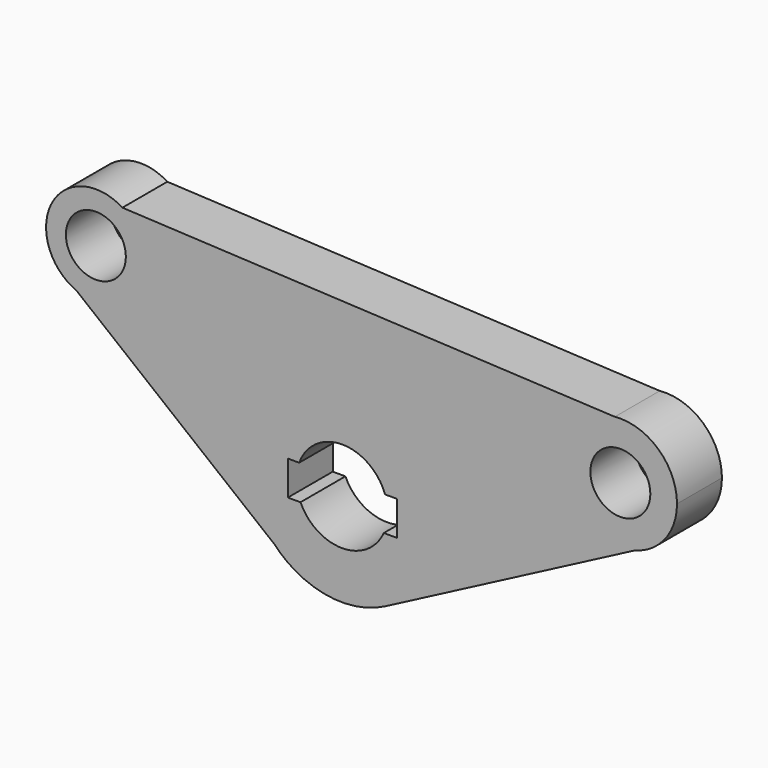
from build123d import *

# Parameters (mm, degrees)
F0_R     = 13.5638253362
F1_DEPTH = 25.4
F2_DEPTH = 41.656
F3_DEPTH = 26.162


with BuildPart() as f1:
    # F0 (on Front) → F1 (new body)
    with BuildSketch(Plane.XZ):
        with BuildLine():
            ThreePointArc((42.2479079596, 0), (36.1330221503, -21.892702831), (19.5584797538, -37.4479852152))
            Line((19.5584797538, -37.4479852152), (132.4212052928, 21.4983992089))
            ThreePointArc((132.4212052928, 21.4983992089), (100.6472035915, 41.7404632116), (123.3718206821, 71.7890924196))
            Line((123.3718206821, 71.7890924196), (-99.4221599354, 82.6346792182))
            ThreePointArc((-99.4221599354, 82.6346792182), (-91.712695746, 74.4613506675), (-88.9104630026, 63.580788672))
            ThreePointArc((-88.9104630026, 63.580788672), (-98.9866948233, 44.8085061449), (-120.2003748087, 42.8314324344))
            Line((-120.2003748087, 42.8314324344), (-30.734153315, -28.9878862108))
            ThreePointArc((-30.734153315, -28.9878862108), (-15.5953846777, 39.2641019726), (42.2479079596, 0))
        make_face()
        with BuildLine():
            Line((-30.734153315, -28.9878862108), (-21.6561091574, -36.2753175468))
            ThreePointArc((-21.6561091574, -36.2753175468), (-1.201582142, -42.2308172703), (19.5584797538, -37.4479852152))
            ThreePointArc((19.5584797538, -37.4479852152), (36.1330221503, -21.892702831), (42.2479079596, 0))
            ThreePointArc((42.2479079596, 0), (-15.5953846777, 39.2641019726), (-30.734153315, -28.9878862108))
        make_face()
        with BuildLine():
            ThreePointArc((-19.4369487029, 7.0494087413), (0, 20.6758104674), (19.4369487029, 7.0494087413))
            Line((19.4369487029, 7.0494087413), (24.9135568738, 7.0494087413))
            Line((24.9135568738, 7.0494087413), (24.9135568738, -8.5022896528))
            Line((24.9135568738, -8.5022896528), (18.8467559315, -8.5022896528))
            ThreePointArc((18.8467559315, -8.5022896528), (0, -20.6758104674), (-18.8467559315, -8.5022896528))
            Line((-18.8467559315, -8.5022896528), (-24.5691239834, -8.5022896528))
            Line((-24.5691239834, -8.5022896528), (-24.5691239834, 7.0494087413))
            Line((-24.5691239834, 7.0494087413), (-19.4369487029, 7.0494087413))
        make_face(mode=Mode.SUBTRACT)
        with BuildLine():
            ThreePointArc((123.3718206821, 71.7890924196), (100.6472035915, 41.7404632116), (132.4212052928, 21.4983992089))
            ThreePointArc((132.4212052928, 21.4983992089), (146.1814974644, 30.6406644058), (151.5054987025, 46.2797712983))
            ThreePointArc((151.5054987025, 46.2797712983), (143.0908574497, 65.2681184027), (123.3718206821, 71.7890924196))
        make_face()
        with Locations((125.873775364, 46.2797712983)):
            Circle(F0_R, mode=Mode.SUBTRACT)
        with BuildLine():
            Line((-129.7982639681, 50.536171143), (-120.2003748087, 42.8314324344))
            ThreePointArc((-120.2003748087, 42.8314324344), (-98.9866948233, 44.8085061449), (-88.9104630026, 63.580788672))
            ThreePointArc((-88.9104630026, 63.580788672), (-91.712695746, 74.4613506675), (-99.4221599354, 82.6346792182))
            ThreePointArc((-99.4221599354, 82.6346792182), (-127.7954989327, 79.063190443), (-129.7982639681, 50.536171143))
        make_face()
        with Locations((-111.4352047443, 63.580788672)):
            Circle(F0_R, mode=Mode.SUBTRACT)
        with BuildLine():
            ThreePointArc((18.8467559315, -8.5022896528), (20.2133754238, -4.3484011382), (20.6758104674, 0))
            ThreePointArc((20.6758104674, 0), (20.3637399061, 3.5787198156), (19.4369487029, 7.0494087413))
            Line((19.4369487029, 7.0494087413), (-19.4369487029, 7.0494087413))
            ThreePointArc((-19.4369487029, 7.0494087413), (-20.6609375603, -0.784090309), (-18.8467559315, -8.5022896528))
            Line((-18.8467559315, -8.5022896528), (18.8467559315, -8.5022896528))
        make_face()
        with Locations((-111.4352047443, 63.580788672)):
            Circle(F0_R)
        with Locations((125.873775364, 46.2797712983)):
            Circle(F0_R)
        with BuildLine():
            Line((-19.4369487029, 7.0494087413), (19.4369487029, 7.0494087413))
            ThreePointArc((19.4369487029, 7.0494087413), (0, 20.6758104674), (-19.4369487029, 7.0494087413))
        make_face()
        with BuildLine():
            ThreePointArc((-18.8467559315, -8.5022896528), (0, -20.6758104674), (18.8467559315, -8.5022896528))
            Line((18.8467559315, -8.5022896528), (-18.8467559315, -8.5022896528))
        make_face()
        with BuildLine():
            ThreePointArc((19.4369487029, 7.0494087413), (20.3637399061, 3.5787198156), (20.6758104674, 0))
            ThreePointArc((20.6758104674, 0), (20.2133754238, -4.3484011382), (18.8467559315, -8.5022896528))
            Line((18.8467559315, -8.5022896528), (24.9135568738, -8.5022896528))
            Line((24.9135568738, -8.5022896528), (24.9135568738, 7.0494087413))
            Line((24.9135568738, 7.0494087413), (19.4369487029, 7.0494087413))
        make_face()
        with BuildLine():
            ThreePointArc((-18.8467559315, -8.5022896528), (-20.6609375603, -0.784090309), (-19.4369487029, 7.0494087413))
            Line((-19.4369487029, 7.0494087413), (-24.5691239834, 7.0494087413))
            Line((-24.5691239834, 7.0494087413), (-24.5691239834, -8.5022896528))
            Line((-24.5691239834, -8.5022896528), (-18.8467559315, -8.5022896528))
        make_face()
        with BuildLine():
            ThreePointArc((-129.7982639681, 50.536171143), (-125.5357705386, 46.0155378963), (-120.2003748087, 42.8314324344))
            Line((-120.2003748087, 42.8314324344), (-129.7982639681, 50.536171143))
        make_face()
        with BuildLine():
            ThreePointArc((-30.734153315, -28.9878862108), (-26.4473356759, -32.9457760966), (-21.6561091574, -36.2753175468))
            Line((-21.6561091574, -36.2753175468), (-30.734153315, -28.9878862108))
        make_face()
    extrude(amount=F1_DEPTH)

    # F0 (on Front) → F2 (cut)
    with BuildSketch(Plane.XZ):
        with BuildLine():
            ThreePointArc((-18.8467559315, -8.5022896528), (0, -20.6758104674), (18.8467559315, -8.5022896528))
            Line((18.8467559315, -8.5022896528), (-18.8467559315, -8.5022896528))
        make_face()
        with BuildLine():
            Line((-19.4369487029, 7.0494087413), (19.4369487029, 7.0494087413))
            ThreePointArc((19.4369487029, 7.0494087413), (0, 20.6758104674), (-19.4369487029, 7.0494087413))
        make_face()
        with BuildLine():
            ThreePointArc((-18.8467559315, -8.5022896528), (-20.6609375603, -0.784090309), (-19.4369487029, 7.0494087413))
            Line((-19.4369487029, 7.0494087413), (-24.5691239834, 7.0494087413))
            Line((-24.5691239834, 7.0494087413), (-24.5691239834, -8.5022896528))
            Line((-24.5691239834, -8.5022896528), (-18.8467559315, -8.5022896528))
        make_face()
        with BuildLine():
            ThreePointArc((19.4369487029, 7.0494087413), (20.3637399061, 3.5787198156), (20.6758104674, 0))
            ThreePointArc((20.6758104674, 0), (20.2133754238, -4.3484011382), (18.8467559315, -8.5022896528))
            Line((18.8467559315, -8.5022896528), (24.9135568738, -8.5022896528))
            Line((24.9135568738, -8.5022896528), (24.9135568738, 7.0494087413))
            Line((24.9135568738, 7.0494087413), (19.4369487029, 7.0494087413))
        make_face()
        with BuildLine():
            ThreePointArc((18.8467559315, -8.5022896528), (20.2133754238, -4.3484011382), (20.6758104674, 0))
            ThreePointArc((20.6758104674, 0), (20.3637399061, 3.5787198156), (19.4369487029, 7.0494087413))
            Line((19.4369487029, 7.0494087413), (-19.4369487029, 7.0494087413))
            ThreePointArc((-19.4369487029, 7.0494087413), (-20.6609375603, -0.784090309), (-18.8467559315, -8.5022896528))
            Line((-18.8467559315, -8.5022896528), (18.8467559315, -8.5022896528))
        make_face()
    extrude(amount=F2_DEPTH, mode=Mode.SUBTRACT)

    # F0 (on Front) → F3 (cut)
    with BuildSketch(Plane.XZ):
        with Locations((-111.4352047443, 63.580788672)):
            Circle(F0_R)
        with Locations((125.873775364, 46.2797712983)):
            Circle(F0_R)
    extrude(amount=F3_DEPTH, mode=Mode.SUBTRACT)


solid = f1.part
